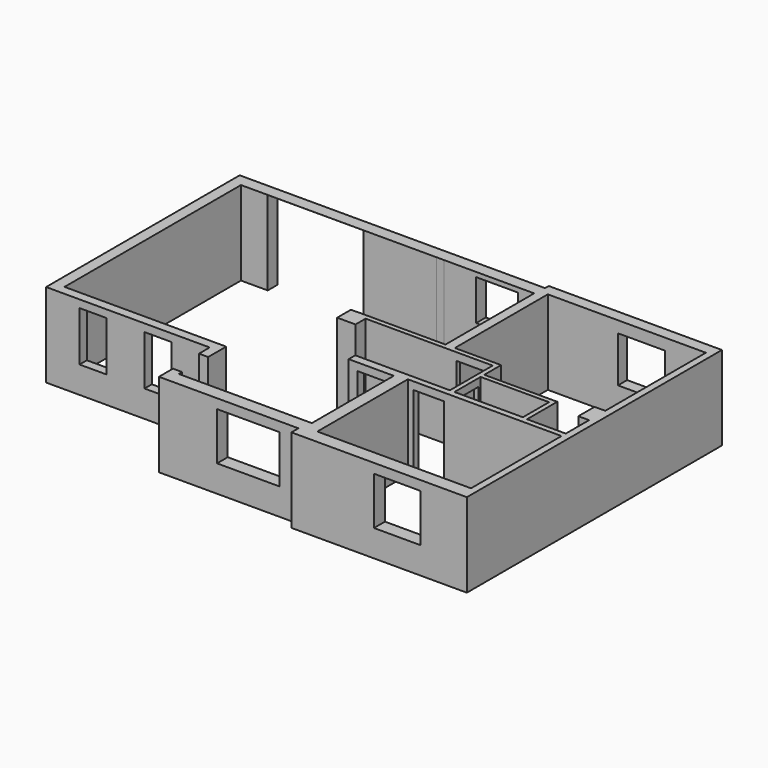
from build123d import *

# Parameters (mm, degrees)
F0_W      = 4020
F0_H      = 2960
F0_W_2    = 1790
F0_H_2    = 854.041485
F0_W_3    = 2480
F0_H_3    = 2900
F1_DEPTH  = 2200
F2_W      = 2500
F2_H      = 2199
F3_DEPTH  = 350
F4_W      = 2905.077265
F4_H      = 2200
F5_DEPTH  = 250
F6_W      = 990
F6_H      = 2200
F7_DEPTH  = 130
F8_W      = 750
F8_H      = 2000
F9_DEPTH  = 250
F10_W     = 800
F10_H     = 2000
F11_DEPTH = 200
F12_W     = 800
F12_H     = 2000
F13_DEPTH = 200
F14_W     = 700
F14_H     = 1300
F15_DEPTH = 240
F16_W     = 1640
F16_H     = 1250
F17_DEPTH = 350
F18_W     = 1220
F18_H     = 1250
F19_DEPTH = 360
F20_W     = 1230
F20_H     = 1200
F21_DEPTH = 300
F22_W     = 1100
F22_H     = 1060
F23_DEPTH = 320
F24_W     = 850
F24_H     = 2200
F25_DEPTH = 240
F26_W     = 700
F26_H     = 2000
F27_DEPTH = 120
F29_DEPTH = 125
F31_DEPTH = 2075


with BuildPart() as f1:
    # F0 (on Top) → F1 (new body)
    with BuildSketch(Plane.XY):
        Polygon((-3390, -1585.958515), (890, -1585.958515), (890, -3245.958515), (4540, -3245.958515), (4540, -3475.958515), (9130, -3475.958515), (9130, 4864.041485), (4600, 4864.041485), (4600, 4744.041485), (-3390, 4744.041485), align=None)
        with Locations((6940, -1635.958515)):
            Rectangle(F0_W, F0_H, mode=Mode.SUBTRACT)
        with Locations((6920, 427.020742)):
            Rectangle(F0_W_2, F0_H_2, mode=Mode.SUBTRACT)
        Polygon((4610, -215.958515), (4610, -2895.958515), (1130, -2895.958515), (1130, -1345.958515), (-3100, -1345.958515), (-3100, 4424.041485), (2020, 4424.041485), (2020, 1518.96422), (1110, 1518.96422), (1110, 1399.993341), (2100, 1399.993341), (2100, 1070), (2580, 1070), (2580, 1400), (5905, 1400), (5905, 0), (3430, 0), (3430, -215.958515), align=None, mode=Mode.SUBTRACT)
        Polygon((4815, 1524.041485), (4815, 4564.041485), (8950, 4564.041485), (8950, 1274.041485), (8670, 1274.041485), (8670, 744.041485), (8950, 744.041485), (8950, -15.958515), (7935, -15.958515), (7935, 974.041485), (6025, 974.041485), (6025, 1524.041485), align=None, mode=Mode.SUBTRACT)
        with Locations((3455, 2974.041485)):
            Rectangle(F0_W_3, F0_H_3, mode=Mode.SUBTRACT)
    extrude(amount=F1_DEPTH)

    # F2 (on face) → F3 (cut)
    with BuildSketch(Plane.XZ.offset(-4424.041485)):
        with Locations((-1150, 1099.5)):
            Rectangle(F2_W, F2_H)
    extrude(amount=-F3_DEPTH, mode=Mode.SUBTRACT)

    # F4 (on face) → F5 (cut)
    with BuildSketch(Plane(origin=(2020, 0, 0), x_dir=(0, -1, 0), z_dir=(-1, 0, 0))):
        with Locations((-2971.502852, 1100)):
            Rectangle(F4_W, F4_H)
    extrude(amount=-F5_DEPTH, mode=Mode.SUBTRACT)

    # F6 (on face) → F7 (cut)
    with BuildSketch(Plane.XZ.offset(-1399.993341)):
        with Locations((1605, 1100)):
            Rectangle(F6_W, F6_H)
    extrude(amount=-F7_DEPTH, mode=Mode.SUBTRACT)

    # F8 (on face) → F9 (cut)
    with BuildSketch(Plane.XZ.offset(215.958515)):
        with Locations((4035, 1000)):
            Rectangle(F8_W, F8_H)
    extrude(amount=-F9_DEPTH, mode=Mode.SUBTRACT)

    # F10 (on face) → F11 (cut)
    with BuildSketch(Plane.XZ.offset(-1400)):
        with Locations((5355, 1000)):
            Rectangle(F10_W, F10_H)
    extrude(amount=-F11_DEPTH, mode=Mode.SUBTRACT)

    # F12 (on face) → F13 (cut)
    with BuildSketch(Plane.XZ.offset(155.958515)):
        with Locations((5480, 1000)):
            Rectangle(F12_W, F12_H)
    extrude(amount=-F13_DEPTH, mode=Mode.SUBTRACT)

    # F14 (on face) → F15 (cut, through all)
    with BuildSketch(Plane.XZ.offset(1585.958515)):
        with Locations((-2165, 1350)):
            Rectangle(F14_W, F14_H)
        with Locations((-465, 1350)):
            Rectangle(F14_W, F14_H)
    extrude(amount=-F15_DEPTH, mode=Mode.SUBTRACT)

    # F16 (on face) → F17 (cut, through all)
    with BuildSketch(Plane.XZ.offset(3245.958515)):
        with Locations((3230, 1325)):
            Rectangle(F16_W, F16_H)
    extrude(amount=-F17_DEPTH, mode=Mode.SUBTRACT)

    # F18 (on face) → F19 (cut, through all)
    with BuildSketch(Plane.XZ.offset(3475.958515)):
        with Locations((7310, 1325)):
            Rectangle(F18_W, F18_H)
    extrude(amount=-F19_DEPTH, mode=Mode.SUBTRACT)

    # F20 (on face) → F21 (cut, through all)
    with BuildSketch(Plane(origin=(0, 4864.041485, 0), x_dir=(-1, 0, 0), z_dir=(0, 1, 0))):
        with Locations((-7265, 1300)):
            Rectangle(F20_W, F20_H)
    extrude(amount=-F21_DEPTH, mode=Mode.SUBTRACT)

    # F22 (on face) → F23 (cut, through all)
    with BuildSketch(Plane(origin=(0, 4744.041485, 0), x_dir=(-1, 0, 0), z_dir=(0, 1, 0))):
        with Locations((-3600, 1550)):
            Rectangle(F22_W, F22_H)
    extrude(amount=-F23_DEPTH, mode=Mode.SUBTRACT)

    # F24 (on face) → F25 (cut, through all)
    with BuildSketch(Plane(origin=(890, 0, 0), x_dir=(0, -1, 0), z_dir=(-1, 0, 0))):
        with Locations((2360.958515, 1100)):
            Rectangle(F24_W, F24_H)
    extrude(amount=-F25_DEPTH, mode=Mode.SUBTRACT)

    # F26 (on face) → F27 (cut, through all)
    with BuildSketch(Plane(origin=(5905, 0, 0), x_dir=(0, -1, 0), z_dir=(-1, 0, 0))):
        with Locations((-440, 1000)):
            Rectangle(F26_W, F26_H)
    extrude(amount=-F27_DEPTH, mode=Mode.SUBTRACT)

    # F28 (on face) → F29 (join)
    with BuildSketch(Plane(origin=(4695, 0, 0), x_dir=(0, -1, 0), z_dir=(-1, 0, 0))):
        Polygon((-1784.041485, 2075), (-1784.041485, 0), (-1524.041485, 0), (-1524.041485, 2200), (-4424.041485, 2200), (-4424.041485, 2075), align=None)
    extrude(amount=F29_DEPTH)

    # F30 (on face) → F31 (join)
    with BuildSketch(Plane(origin=(0, 0, 2075), x_dir=(1, 0, 0), z_dir=(0, 0, -1))):
        Polygon((4695, -4288.742065), (4570, -4424.041485), (4695, -4424.041485), align=None)
    extrude(amount=F31_DEPTH)


solid = f1.part
